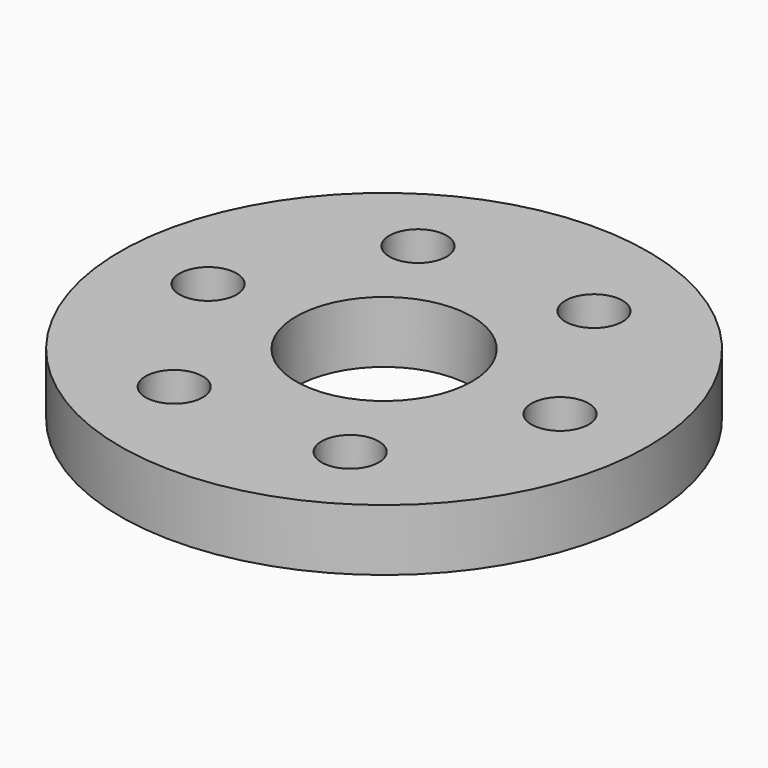
from build123d import *

# Parameters (mm, degrees)
F0_R     = 15
F0_R_2   = 1.625
F0_R_3   = 5
F1_DEPTH = 3.5


with BuildPart() as f1:
    # F0 (on Top) → F1 (new body)
    with BuildSketch(Plane.XY):
        Circle(F0_R)
        with Locations((-5, -8.660254)):
            Circle(F0_R_2, mode=Mode.SUBTRACT)
        with Locations((5, -8.660254)):
            Circle(F0_R_2, mode=Mode.SUBTRACT)
        with Locations((-10, 0)):
            Circle(F0_R_2, mode=Mode.SUBTRACT)
        with Locations((-5, 8.660254)):
            Circle(F0_R_2, mode=Mode.SUBTRACT)
        Circle(F0_R_3, mode=Mode.SUBTRACT)
        with Locations((10, 0)):
            Circle(F0_R_2, mode=Mode.SUBTRACT)
        with Locations((5, 8.660254)):
            Circle(F0_R_2, mode=Mode.SUBTRACT)
    extrude(amount=F1_DEPTH)


solid = f1.part
